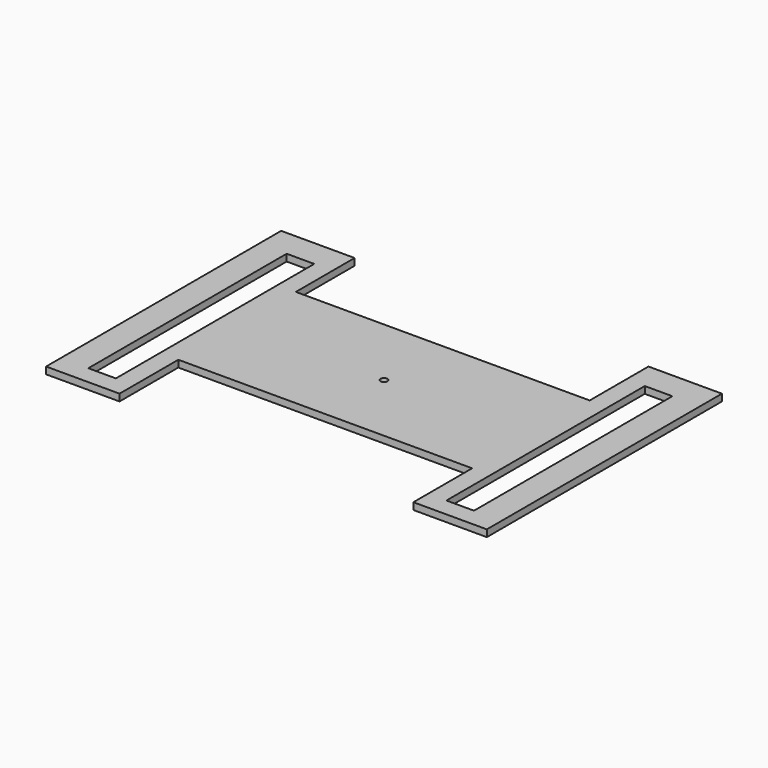
from build123d import *

# Parameters (mm, degrees)
F0_W     = 76.2
F0_H     = 685.8
F0_R     = 9.525
F1_DEPTH = 19.05


with BuildPart() as f1:
    # F0 (on Top) → F1 (new body)
    with BuildSketch(Plane.XY):
        Polygon((-136.615629, 790.613583), (-136.615629, -22.186417), (66.584371, -22.186417), (66.584371, 181.013583), (472.984371, 181.013583), (879.384371, 181.013583), (879.384371, -22.186417), (1082.584371, -22.186417), (1082.584371, 790.613583), (879.384371, 790.613583), (879.384371, 587.413583), (472.984371, 587.413583), (66.584371, 587.413583), (66.584371, 790.613583), align=None)
        with Locations((-22.315629, 371.513583)):
            Rectangle(F0_W, F0_H, mode=Mode.SUBTRACT)
        with Locations((472.984371, 384.213583)):
            Circle(F0_R, mode=Mode.SUBTRACT)
        with Locations((968.284371, 371.513583)):
            Rectangle(F0_W, F0_H, mode=Mode.SUBTRACT)
    extrude(amount=F1_DEPTH)


solid = f1.part
